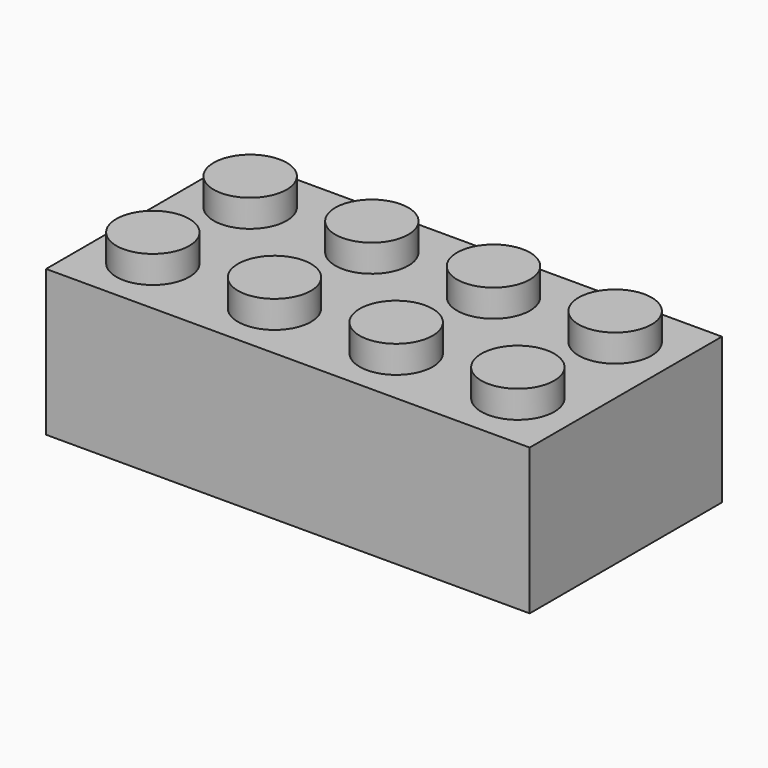
from build123d import *

# Parameters (mm, degrees)
F0_W     = 807.72
F0_H     = 401.32
F1_DEPTH = 243.84
F2_R     = 60.96
F3_DEPTH = 45.72
F4_W     = 746.76
F4_H     = 340.36
F5_DEPTH = 213.36
F6_R     = 82.55
F6_R_2   = 60.96
F7_DEPTH = 142.24
F8_DEPTH = 213.36


with BuildPart() as f1:
    # F0 (on Top) → F1 (new body)
    with BuildSketch(Plane.XY):
        with Locations((8.111613, -0.734823)):
            Rectangle(F0_W, F0_H)
    extrude(amount=F1_DEPTH)

    # F2 (on face) → F3 (join)
    with BuildSketch(Plane.XY.offset(243.84)):
        with Locations((-296.688387, 100.865177)):
            Circle(F2_R)
        with Locations((-296.688387, -102.334823)):
            Circle(F2_R)
        with Locations((-93.488387, -102.334823)):
            Circle(F2_R)
        with Locations((-93.488387, 100.865177)):
            Circle(F2_R)
        with Locations((109.711613, 100.865177)):
            Circle(F2_R)
        with Locations((109.711613, -102.334823)):
            Circle(F2_R)
        with Locations((312.911613, -102.334823)):
            Circle(F2_R)
        with Locations((312.911613, 100.865177)):
            Circle(F2_R)
    extrude(amount=F3_DEPTH)

    # F4 (on face) → F5 (cut)
    with BuildSketch(Plane.XY):
        with Locations((8.111613, -0.734823)):
            Rectangle(F4_W, F4_H)
    extrude(amount=F5_DEPTH, mode=Mode.SUBTRACT)

    # F6 (on face) → F7 (cut)
    with BuildSketch(Plane.XY):
        with Locations((211.311613, -0.734823)):
            Circle(F6_R)
        with Locations((211.311613, -0.734823)):
            Circle(F6_R_2, mode=Mode.SUBTRACT)
        with Locations((8.111613, -0.734823)):
            Circle(F6_R)
        with Locations((8.111613, -0.734823)):
            Circle(F6_R_2, mode=Mode.SUBTRACT)
        with Locations((-195.088387, -0.734823)):
            Circle(F6_R)
        with Locations((-195.088387, -0.734823)):
            Circle(F6_R_2, mode=Mode.SUBTRACT)
    extrude(amount=F7_DEPTH, mode=Mode.SUBTRACT)

    # F6 (on face) → F8 (join)
    with BuildSketch(Plane.XY):
        with Locations((211.311613, -0.734823)):
            Circle(F6_R)
        with Locations((211.311613, -0.734823)):
            Circle(F6_R_2, mode=Mode.SUBTRACT)
        with Locations((8.111613, -0.734823)):
            Circle(F6_R)
        with Locations((8.111613, -0.734823)):
            Circle(F6_R_2, mode=Mode.SUBTRACT)
        with Locations((-195.088387, -0.734823)):
            Circle(F6_R)
        with Locations((-195.088387, -0.734823)):
            Circle(F6_R_2, mode=Mode.SUBTRACT)
    extrude(amount=F8_DEPTH)


solid = f1.part
